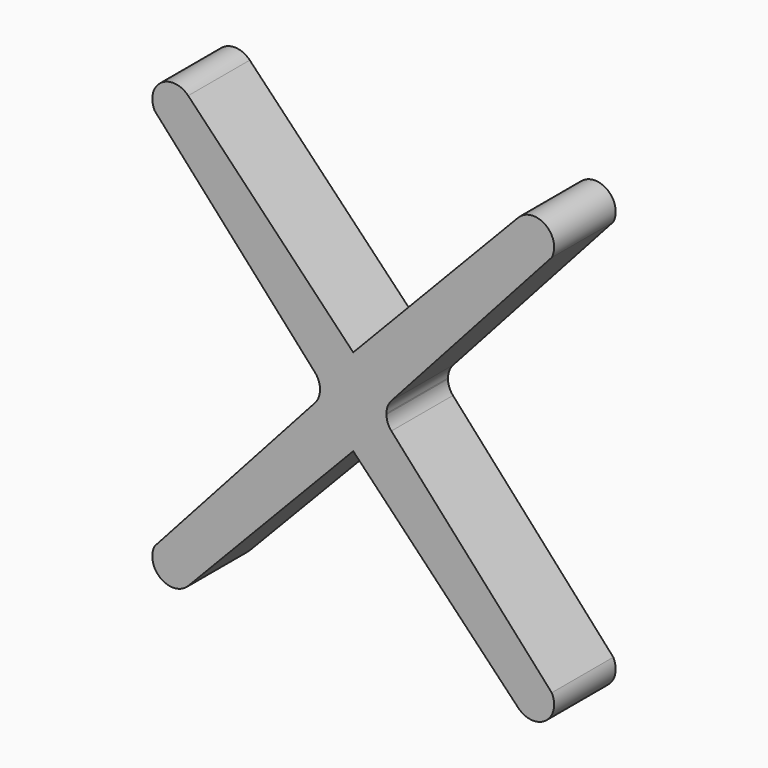
from build123d import *

# Parameters (mm, degrees)
F1_DEPTH = 25.4


with BuildPart() as f1:
    # F0 (on Front) → F1 (new body)
    with BuildSketch(Plane.XZ):
        with BuildLine():
            Line((-54.477422, -71.236187), (0, -14.34601))
            Line((0, -14.34601), (54.477422, -71.236187))
            ThreePointArc((54.477422, -71.236187), (63.483736, -72.054395), (65.532006, -63.246004))
            Line((65.532006, -63.246004), (12.601703, -4.401703))
            ThreePointArc((12.601703, -4.401703), (11.393994, -2.42924), (10.9728, -0.155088))
            Line((10.9728, -0.155088), (10.9728, 0.155088))
            ThreePointArc((10.9728, 0.155088), (11.393994, 2.42924), (12.601703, 4.401703))
            Line((12.601703, 4.401703), (65.532006, 63.246004))
            ThreePointArc((65.532006, 63.246004), (63.483736, 72.054395), (54.477422, 71.236187))
            Line((54.477422, 71.236187), (0, 14.34601))
            Line((0, 14.34601), (-54.477422, 71.236187))
            ThreePointArc((-54.477422, 71.236187), (-63.483736, 72.054395), (-65.532006, 63.246004))
            Line((-65.532006, 63.246004), (-12.601703, 4.401703))
            ThreePointArc((-12.601703, 4.401703), (-11.393994, 2.42924), (-10.9728, 0.155088))
            Line((-10.9728, 0.155088), (-10.9728, -0.155088))
            ThreePointArc((-10.9728, -0.155088), (-11.393994, -2.42924), (-12.601703, -4.401703))
            Line((-12.601703, -4.401703), (-65.532006, -63.246004))
            ThreePointArc((-65.532006, -63.246004), (-63.483736, -72.054395), (-54.477422, -71.236187))
        make_face()
    extrude(amount=F1_DEPTH)


solid = f1.part
